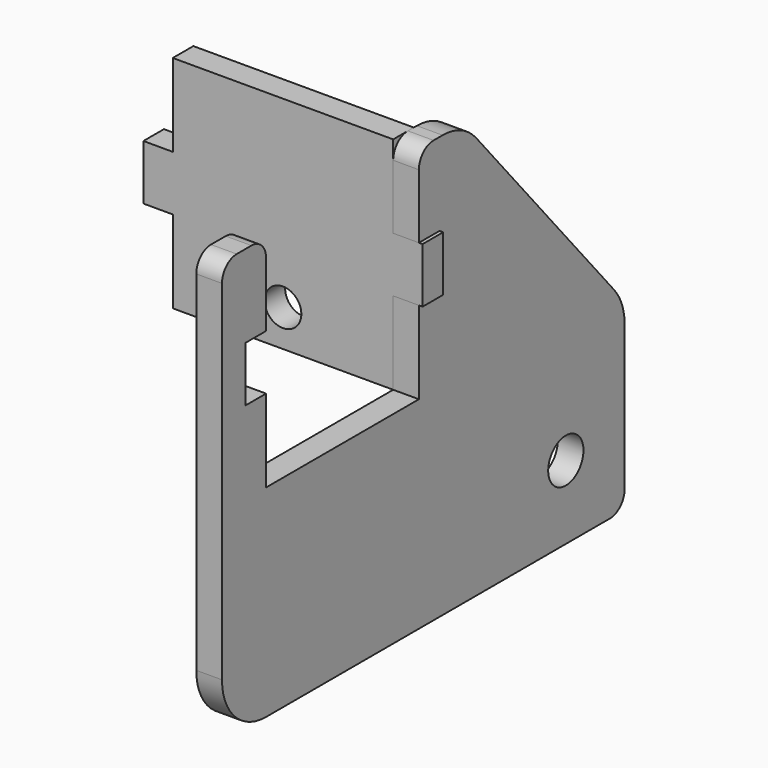
from build123d import *

# Parameters (mm, degrees)
F0_R     = 6
F1_DEPTH = 7
F2_R     = 5
F3_DEPTH = 7


with BuildPart() as f1:
    # F0 (on Right) → F1 (new body)
    with BuildSketch(Plane.YZ):
        with BuildLine():
            Line((-102, -20), (15, -20))
            ThreePointArc((15, -20), (18.535534, -18.535534), (20, -15))
            Line((20, -15), (20, 24.505382))
            ThreePointArc((20, 24.505382), (19.084777, 29.664747), (16.450794, 34.194516))
            Line((16.450794, 34.194516), (-30.50619, 89.689134))
            ThreePointArc((-30.50619, 89.689134), (-35.645764, 93.607663), (-41.956984, 95))
            Line((-41.956984, 95), (-45, 95))
            ThreePointArc((-45, 95), (-48.535534, 93.535534), (-50, 90))
            Line((-50, 90), (-50, 72.5))
            Line((-50, 72.5), (-43, 72.5))
            Line((-43, 72.5), (-43, 57.5))
            Line((-43, 57.5), (-50, 57.5))
            Line((-50, 57.5), (-50, 35))
            Line((-50, 35), (-102, 35))
            Line((-102, 35), (-102, 57.5))
            Line((-102, 57.5), (-109, 57.5))
            Line((-109, 57.5), (-109, 72.5))
            Line((-109, 72.5), (-102, 72.5))
            Line((-102, 72.5), (-102, 90))
            ThreePointArc((-102, 90), (-103.464466, 93.535534), (-107, 95))
            Line((-107, 95), (-112, 95))
            ThreePointArc((-112, 95), (-115.535534, 93.535534), (-117, 90))
            Line((-117, 90), (-117, -5))
            ThreePointArc((-117, -5), (-112.606602, -15.606602), (-102, -20))
        make_face()
        Circle(F0_R, mode=Mode.SUBTRACT)
    extrude(amount=F1_DEPTH)


with BuildPart() as f3:
    # F2 (on face) → F3 (new body)
    with BuildSketch(Plane.XZ.offset(43)):
        Polygon((8, 57.5), (8, 72.5), (0, 72.5), (0, 95), (-60, 95), (-60, 72.5), (-68, 72.5), (-68, 57.5), (-60, 57.5), (-60, 35), (0, 35), (0, 57.5), align=None)
        with Locations((-30, 45)):
            Circle(F2_R, mode=Mode.SUBTRACT)
    extrude(amount=F3_DEPTH)


solid = Compound([f1.part, f3.part])
